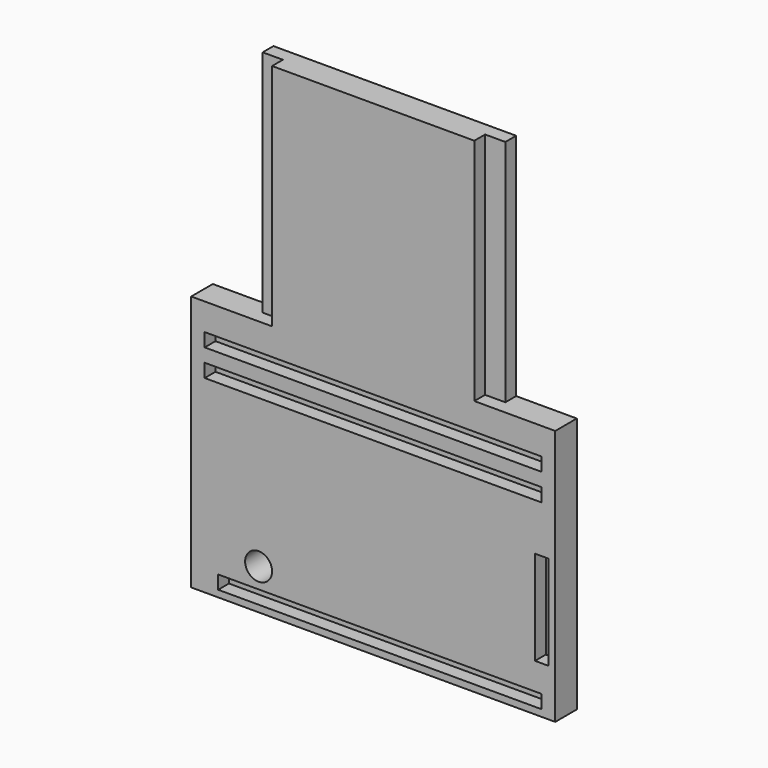
from build123d import *

# Parameters (mm, degrees)
F0_W      = 342.9
F0_H      = 177.8
F0_W_2    = 228.6
F0_H_2    = 215.9
F1_DEPTH  = 25.4
F2_W      = 304.8
F2_H      = 12.7
F3_DEPTH  = 12.7
F4_W      = 304.8
F4_H      = 12.7
F5_DEPTH  = 12.7
F6_R      = 12.7
F7_DEPTH  = 25.4
F9_DEPTH  = 12.7
F11_DEPTH = 12.7
F12_W     = 317.5
F12_H     = 12.7
F13_DEPTH = 12.7


with BuildPart() as f1:
    # F0 (on Front) → F1 (new body)
    with BuildSketch(Plane.XZ):
        with Locations((171.45, 88.9)):
            Rectangle(F0_W, F0_H)
        Polygon((0, 241.3), (0, 177.8), (342.9, 177.8), (342.9, 241.3), (285.75, 241.3), (57.15, 241.3), align=None)
        with Locations((171.45, 349.25)):
            Rectangle(F0_W_2, F0_H_2)
    extrude(amount=F1_DEPTH)

    # F2 (on face) → F3 (cut)
    with BuildSketch(Plane.XZ.offset(25.4)):
        with Locations((177.8, 12.7)):
            Rectangle(F2_W, F2_H)
    extrude(amount=-F3_DEPTH, mode=Mode.SUBTRACT)

    # F4 (on face) → F5 (cut)
    with BuildSketch(Plane.XZ.offset(25.4)):
        with Locations((177.8, -12.7)):
            Rectangle(F4_W, F4_H)
    extrude(amount=-F5_DEPTH, mode=Mode.SUBTRACT)

    # F6 (on face) → F7 (cut)
    with BuildSketch(Plane(origin=(0, 0, 0), x_dir=(-1, 0, 0), z_dir=(0, 1, 0))):
        with Locations((-63.5, 38.1)):
            Circle(F6_R)
    extrude(amount=-F7_DEPTH, mode=Mode.SUBTRACT)

    # F8 (on face) → F9 (cut)
    with BuildSketch(Plane.XZ.offset(25.4)):
        Polygon((323.85, 44.45), (330.2, 44.45), (336.55, 44.45), (336.55, 133.35), (323.85, 133.35), align=None)
    extrude(amount=-F9_DEPTH, mode=Mode.SUBTRACT)

    # F10 (on face) → F11 (cut)
    with BuildSketch(Plane.XZ.offset(25.4)):
        Polygon((76.2, 438.15), (76.2, 457.2), (57.15, 457.2), (57.15, 241.3), (76.2, 241.3), align=None)
        Polygon((285.75, 241.3), (285.75, 457.2), (266.7, 457.2), (266.7, 438.15), (266.7, 241.3), align=None)
    extrude(amount=-F11_DEPTH, mode=Mode.SUBTRACT)

    # F12 (on face) → F13 (cut)
    with BuildSketch(Plane.XZ.offset(25.4)):
        with Locations((171.45, 209.55)):
            Rectangle(F12_W, F12_H)
        with Locations((171.45, 184.15)):
            Rectangle(F12_W, F12_H)
    extrude(amount=-F13_DEPTH, mode=Mode.SUBTRACT)


solid = f1.part
